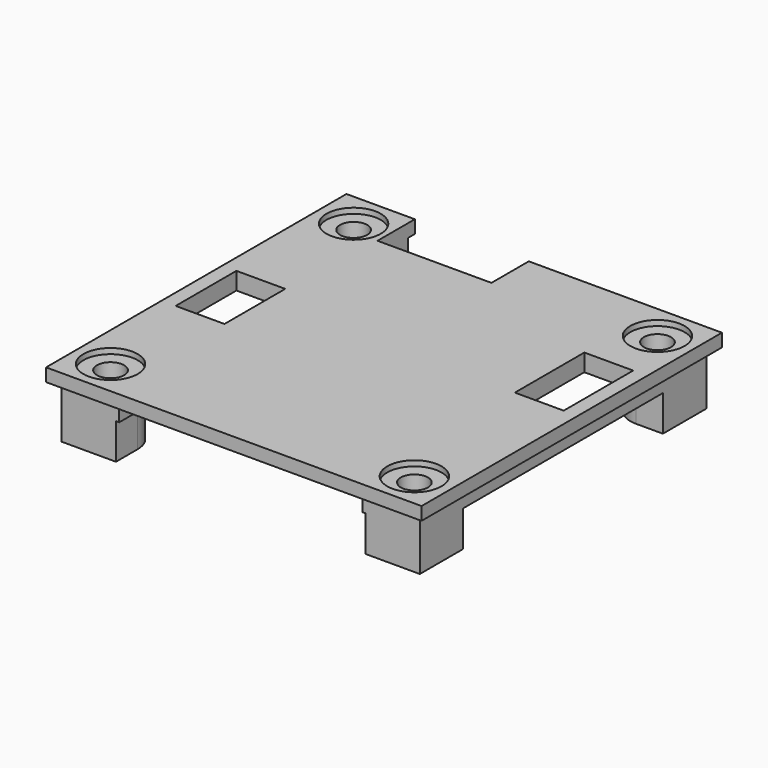
from build123d import *

# Parameters (mm, degrees)
CLONE2D_W                = 34.6
CLONE2D_H                = 34.6
PAD004_DEPTH             = 1.2
SKETCH019_W              = 33
SKETCH019_H              = 33
PAD005_DEPTH             = 1.6
PAD006_DEPTH             = 3.3
SKETCH021_W              = 8
SKETCH021_H              = 22.4
SKETCH021_W_2            = 22.4
SKETCH021_H_2            = 5
SKETCH021_W_3            = 10
SKETCH021_H_3            = 9
POCKET014_DEPTH          = 1.2
SKETCH022_R              = 2.5
POCKET015_DEPTH          = 0.5
SKETCH023_R              = 1.25
POCKET016_DEPTH          = 6.101
SKETCH024_W              = 10.5
SKETCH024_H              = 4.5
SKETCH024_W_2            = 4.5
SKETCH024_H_2            = 8
SKETCH024_H_3            = 7
POCKET017_DEPTH          = 2.801
CLONE002_PLACEMENT_ANGLE = 180


with BuildPart() as part:
    # Clone2D → Pad004 (new body)
    with BuildSketch(Plane.XY):
        Rectangle(CLONE2D_W, CLONE2D_H)
    extrude(amount=PAD004_DEPTH)

    # Sketch019 → Pad005 (new body)
    with BuildSketch(Plane.XY.offset(1.2)):
        Rectangle(SKETCH019_W, SKETCH019_H)
    extrude(amount=PAD005_DEPTH)

    # Sketch020 → Pad006 (new body)
    with BuildSketch(Plane.XY.offset(2.8)):
        with BuildLine():
            ThreePointArc((-14, 11.5), (-12.232233, 12.232233), (-11.5, 14))
            Line((-11.5, 16.5), (-11.5, 14))
            Line((-11.5, 16.5), (-16.5, 16.5))
            Line((-16.5, 16.5), (-16.5, 11.5))
            Line((-16.5, 11.5), (-14, 11.5))
        make_face()
        with BuildLine():
            ThreePointArc((11.5, 14), (12.232233, 12.232233), (14, 11.5))
            Line((14, 11.5), (16.5, 11.5))
            Line((16.5, 11.5), (16.5, 16.5))
            Line((16.5, 16.5), (11.5, 16.5))
            Line((11.5, 16.5), (11.5, 14))
        make_face()
        with BuildLine():
            ThreePointArc((-11.5, -14), (-12.232233, -12.232233), (-14, -11.5))
            Line((-16.5, -11.5), (-14, -11.5))
            Line((-16.5, -16.5), (-16.5, -11.5))
            Line((-11.5, -16.5), (-16.5, -16.5))
            Line((-11.5, -14), (-11.5, -16.5))
        make_face()
        with BuildLine():
            ThreePointArc((14, -11.5), (12.232233, -12.232233), (11.5, -14))
            Line((11.5, -14), (11.5, -16.5))
            Line((11.5, -16.5), (16.5, -16.5))
            Line((16.5, -16.5), (16.5, -11.5))
            Line((16.5, -11.5), (14, -11.5))
        make_face()
    extrude(amount=PAD006_DEPTH)

    # Sketch021 → Pocket014 (cut)
    with BuildSketch(Plane.XY.offset(2.8)):
        with Locations((12.5, 0)):
            Rectangle(SKETCH021_W, SKETCH021_H)
        with Locations((0, -14)):
            Rectangle(SKETCH021_W_2, SKETCH021_H_2)
        with Locations((-9, 6.7)):
            Rectangle(SKETCH021_W_3, SKETCH021_H_3)
    extrude(amount=-POCKET014_DEPTH, mode=Mode.SUBTRACT)

    # Sketch022 → Pocket015 (cut)
    with BuildSketch(Plane(origin=(0, 0, 0), x_dir=(1, 0, 0), z_dir=(0, 0, -1))):
        with Locations((-14, 14)):
            Circle(SKETCH022_R)
        with Locations((14, 14)):
            Circle(SKETCH022_R)
        with Locations((-14, -14)):
            Circle(SKETCH022_R)
        with Locations((14, -14)):
            Circle(SKETCH022_R)
    extrude(amount=-POCKET015_DEPTH, mode=Mode.SUBTRACT)

    # Sketch023 → Pocket016 (cut, through all)
    with BuildSketch(Plane(origin=(0, 0, 0), x_dir=(1, 0, 0), z_dir=(0, 0, -1))):
        with Locations((-14, 14)):
            Circle(SKETCH023_R)
        with Locations((14, 14)):
            Circle(SKETCH023_R)
        with Locations((-14, -14)):
            Circle(SKETCH023_R)
        with Locations((14, -14)):
            Circle(SKETCH023_R)
    extrude(amount=-POCKET016_DEPTH, mode=Mode.SUBTRACT)

    # Sketch024 → Pocket017 (cut, through all)
    with BuildSketch(Plane.XY.offset(2.8)):
        with Locations((5.75, 15.25)):
            Rectangle(SKETCH024_W, SKETCH024_H)
        with Locations((-13.75, 4.7)):
            Rectangle(SKETCH024_W_2, SKETCH024_H_2)
        with Locations((13.75, -0.5)):
            Rectangle(SKETCH024_W_2, SKETCH024_H_3)
    extrude(amount=-POCKET017_DEPTH, mode=Mode.SUBTRACT)


with BuildPart() as part_1:
    # Clone002 placement: moved
    add(part.part.moved(Location((0, 0, 17.2))).rotate(Axis((0, 0, 17.2), (0, 1, 0)), CLONE002_PLACEMENT_ANGLE))


solid = part_1.part
